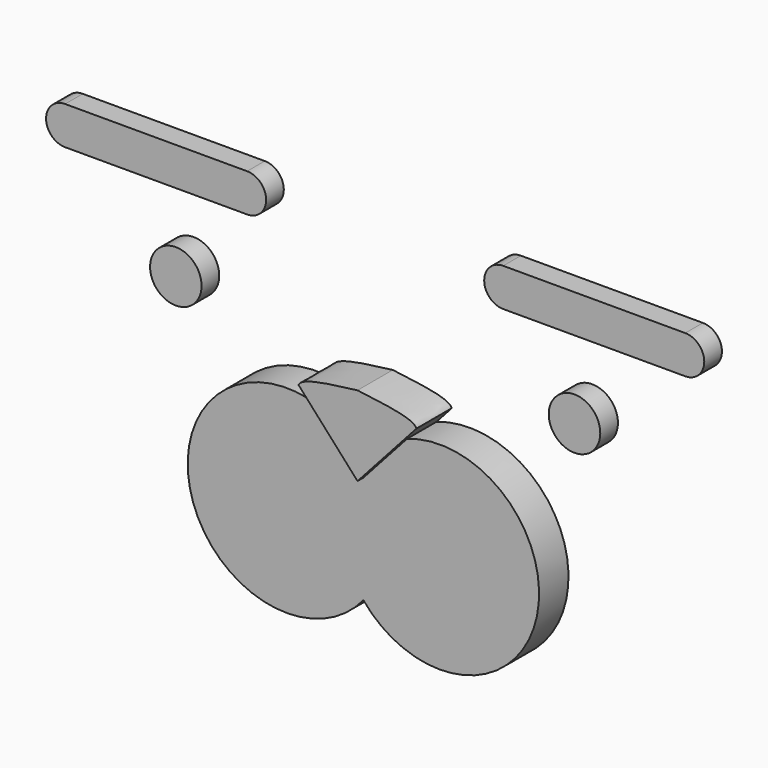
from build123d import *

# Parameters (mm, degrees)
F1_DEPTH = 3
F0_R     = 3.5
F2_DEPTH = 5
F3_DEPTH = 6


with BuildPart() as f1:
    # F0 (on Front) → F1 (new body)
    with BuildSketch(Plane.XZ):
        with BuildLine():
            Line((-38.4092436153, 6.8469699793), (-13.666519417, 6.8469699793))
            ThreePointArc((-13.666519417, 6.8469699793), (-11.0805620903, 9.432927306), (-13.666519417, 12.0188846326))
            Line((-13.666519417, 12.0188846326), (-38.4092436153, 12.0188846326))
            ThreePointArc((-38.4092436153, 12.0188846326), (-40.995200942, 9.432927306), (-38.4092436153, 6.8469699793))
        make_face()
    extrude(amount=F1_DEPTH)


with BuildPart() as f1b:
    # F0 (on Front) → F1, piece 2 (new body)
    with BuildSketch(Plane.XZ):
        with BuildLine():
            Line((45.8882047814, 12.0188846326), (21.145480583, 12.0188846326))
            ThreePointArc((21.145480583, 12.0188846326), (18.5595232563, 9.432927306), (21.145480583, 6.8469699793))
            Line((21.145480583, 6.8469699793), (45.8882047814, 6.8469699793))
            ThreePointArc((45.8882047814, 6.8469699793), (48.4741621081, 9.432927306), (45.8882047814, 12.0188846326))
        make_face()
    extrude(amount=F1_DEPTH)


with BuildPart() as f1c:
    # F0 (on Front) → F1, piece 3 (new body)
    with BuildSketch(Plane.XZ):
        with Locations((30.837480583, -3.7130300207)):
            Circle(F0_R)
    extrude(amount=F1_DEPTH)


with BuildPart() as f1d:
    # F0 (on Front) → F1, piece 4 (new body)
    with BuildSketch(Plane.XZ):
        with Locations((-23.358519417, -3.7130300207)):
            Circle(F0_R)
    extrude(amount=F1_DEPTH)


with BuildPart() as f2:
    # F0 (on Front) → F2 (new body)
    with BuildSketch(Plane.XZ):
        with BuildLine():
            Line((3.739480583, -32.8402805437), (3.739480583, -18.1830300207))
            Line((3.739480583, -18.1830300207), (2.4800526234, -16.7852858369))
            Line((2.4800526234, -16.7852858369), (-2.1999505434, -11.591303))
            ThreePointArc((-2.1999505434, -11.591303), (-19.6443103227, -27.9218542992), (3.739480583, -32.8402805437))
        make_face()
        with BuildLine():
            Line((9.6789117095, -11.591303), (3.739480583, -18.1830300207))
            Line((3.739480583, -18.1830300207), (3.739480583, -32.8402805437))
            ThreePointArc((3.739480583, -32.8402805437), (27.1232714887, -27.9218542992), (9.6789117095, -11.591303))
        make_face()
    extrude(amount=F2_DEPTH)


with BuildPart() as f3:
    # F0 (on Front) → F3 (new body)
    with BuildSketch(Plane.XZ):
        with BuildLine():
            Line((2.4800526234, -16.7852858369), (3.739480583, -18.1830300207))
            Line((3.739480583, -18.1830300207), (9.6789117095, -11.591303))
            Line((9.6789117095, -11.591303), (11.750225825, -9.2925075543))
            add(Edge.make_bspline(
                [(11.750225825, -9.2925075543), (11.4351763351, -8.2669545835), (7.5873282408, -7.7940027069), (3.739480583, -7.3210300207)],
                knots=[0.3798207444, 0.3798207444, 0.3798207444, 0.3798207444, 1, 1, 1, 1], degree=3))
            add(Edge.make_bspline(
                [(-4.2712646589, -9.2925075543), (-3.956215169, -8.2669545835), (-0.1083670747, -7.7940027069), (3.739480583, -7.3210300207)],
                knots=[0.3798207444, 0.3798207444, 0.3798207444, 0.3798207444, 1, 1, 1, 1], degree=3))
            Line((-4.2712646589, -9.2925075543), (-2.1999505434, -11.591303))
            Line((-2.1999505434, -11.591303), (2.4800526234, -16.7852858369))
        make_face()
    extrude(amount=F3_DEPTH)


solid = Compound([f1.part, f1b.part, f1c.part, f1d.part, f2.part, f3.part])
